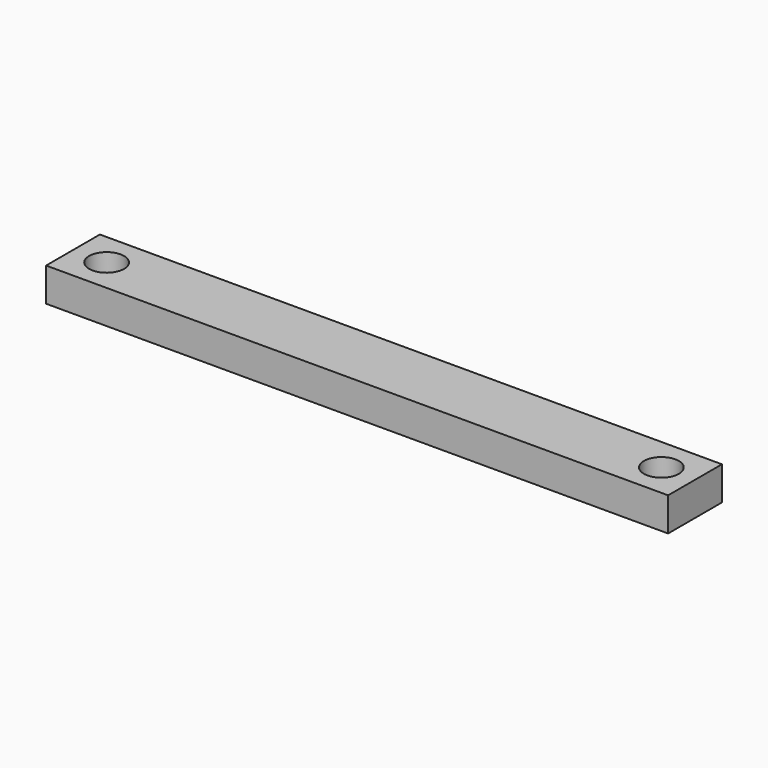
from build123d import *

# Parameters (mm, degrees)
F0_W     = 92.5
F0_H     = 10
F1_DEPTH = 5
F3_DEPTH = 25
F4_R     = 2.6
F5_DEPTH = 25


with BuildPart() as f1:
    # F0 (on Top) → F1 (new body)
    with BuildSketch(Plane.XY):
        Rectangle(F0_W, F0_H)
    extrude(amount=F1_DEPTH)

    # F2 (on face) → F3 (cut)
    with BuildSketch(Plane.XY.offset(5)):
        with BuildLine():
            ThreePointArc((-43.85, 0), (-41.25, -2.6), (-38.65, 0))
            ThreePointArc((-38.65, 0), (-41.25, 2.6), (-43.85, 0))
        make_face()
    extrude(amount=-F3_DEPTH, mode=Mode.SUBTRACT)

    # F4 (on face) → F5 (cut)
    with BuildSketch(Plane.XY.offset(5)):
        with Locations((41.25, 0)):
            Circle(F4_R)
    extrude(amount=-F5_DEPTH, mode=Mode.SUBTRACT)


solid = f1.part
